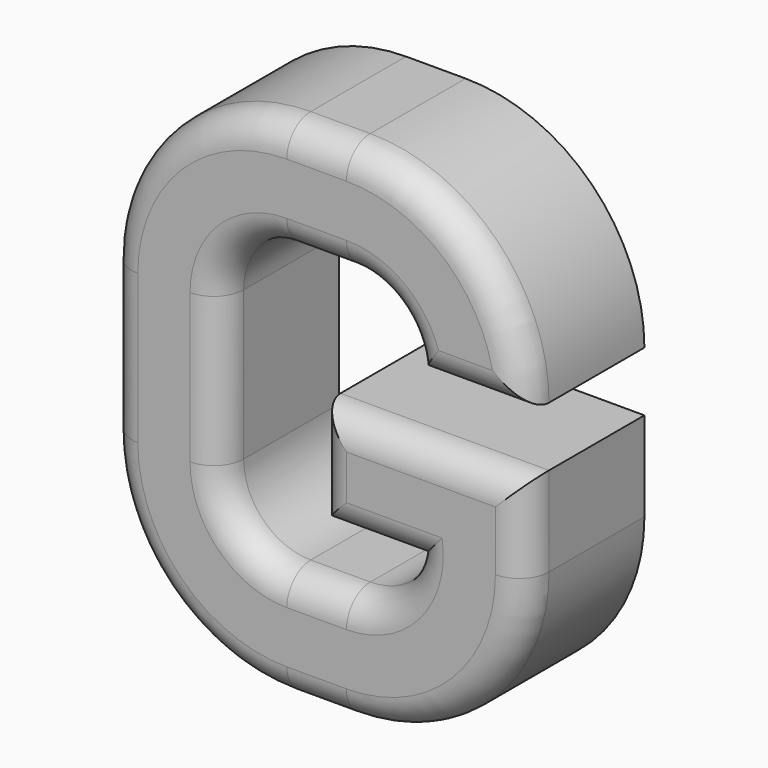
from build123d import *

# Parameters (mm, degrees)
F1_DEPTH = 25.4
F2_R     = 5.08


with BuildPart() as f1:
    # F0 (on Front) → F1 (new body)
    with BuildSketch(Plane.XZ):
        with BuildLine():
            Line((5.08, 43.18), (-5.08, 43.18))
            ThreePointArc((-5.08, 43.18), (-26.632615, 34.252615), (-35.56, 12.7))
            Line((-35.56, 12.7), (-35.56, -12.7))
            ThreePointArc((-35.56, -12.7), (-26.632615, -34.252615), (-5.08, -43.18))
            Line((-5.08, -43.18), (5.08, -43.18))
            ThreePointArc((5.08, -43.18), (26.632615, -34.252615), (35.56, -12.7))
            Line((35.56, -12.7), (35.56, 0))
            Line((35.56, 0), (35.56, 2.54))
            Line((35.56, 2.54), (0, 2.54))
            Line((0, 2.54), (0, 0))
            Line((0, 0), (0, -12.7))
            Line((0, -12.7), (0, -15.24))
            Line((0, -15.24), (16.224205, -15.24))
            ThreePointArc((16.224205, -15.24), (12.207857, -21.635242), (5.08, -24.13))
            Line((5.08, -24.13), (-5.08, -24.13))
            ThreePointArc((-5.08, -24.13), (-13.162231, -20.782231), (-16.51, -12.7))
            Line((-16.51, -12.7), (-16.51, 12.7))
            ThreePointArc((-16.51, 12.7), (-13.162231, 20.782231), (-5.08, 24.13))
            Line((-5.08, 24.13), (5.08, 24.13))
            ThreePointArc((5.08, 24.13), (13.162231, 20.782231), (16.51, 12.7))
            Line((16.51, 12.7), (35.56, 12.7))
            ThreePointArc((35.56, 12.7), (26.632615, 34.252615), (5.08, 43.18))
        make_face()
    extrude(amount=F1_DEPTH)

    # F2
    f2_edges = [f1.edges().sort_by_distance(p)[0] for p in [
        (26.632615, -25.4, 34.252615),
        (-13.162231, -25.4, -20.782231),
        (8.112102, -25.4, -15.24),
        (0, -25.4, -6.35),
        (17.78, -25.4, 2.54),
        (26.035, -25.4, 12.7),
    ]]
    fillet(f2_edges, radius=F2_R)


solid = f1.part
